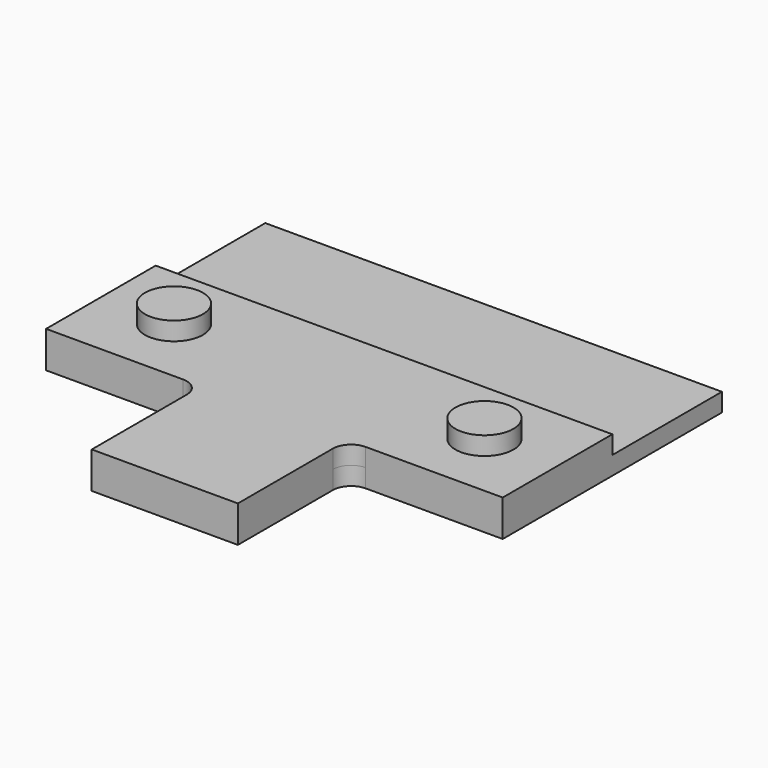
from build123d import *

# Parameters (mm, degrees)
F1_DEPTH = 2
F2_R     = 2
F3_R     = 3.175
F4_DEPTH = 2
F5_W     = 50
F5_H     = 15
F6_DEPTH = 2


with BuildPart() as f1:
    # F0 (on Top) → F1 (new body)
    with BuildSketch(Plane.XY):
        Polygon((-8, -15), (8, -15), (8, 0), (25, 0), (25, 15), (-25, 15), (-25, 0), (-8, 0), align=None)
    extrude(amount=F1_DEPTH)

    # F2
    f2_edges = [f1.edges().sort_by_distance(p)[0] for p in [
        (-8, 0, 1),
        (8, 0, 1),
    ]]
    fillet(f2_edges, radius=F2_R)

    # F3 (on face) → F4 (join)
    with BuildSketch(Plane.XY.offset(2)):
        with BuildLine():
            ThreePointArc((-13.825, 7.5), (-17, 10.675), (-20.175, 7.5))
            ThreePointArc((-20.175, 7.5), (-17, 4.325), (-13.825, 7.5))
        make_face()
        with Locations((17, 7.5)):
            Circle(F3_R)
    extrude(amount=F4_DEPTH)

    # F5 (on face) → F6 (join)
    with BuildSketch(Plane(origin=(0, 0, 0), x_dir=(1, 0, 0), z_dir=(0, 0, -1))):
        with BuildLine():
            Line((8, 2), (8, 15))
            Line((8, 15), (-8, 15))
            Line((-8, 15), (-8, 2))
            ThreePointArc((-8, 2), (-8.585786, 0.585786), (-10, 0))
            Line((-10, 0), (-25, 0))
            Line((-25, 0), (-25, -15))
            Line((-25, -15), (25, -15))
            Line((25, -15), (25, 0))
            Line((25, 0), (10, 0))
            ThreePointArc((10, 0), (8.585786, 0.585786), (8, 2))
        make_face()
        with Locations((0, -22.5)):
            Rectangle(F5_W, F5_H)
    extrude(amount=F6_DEPTH)


solid = f1.part
